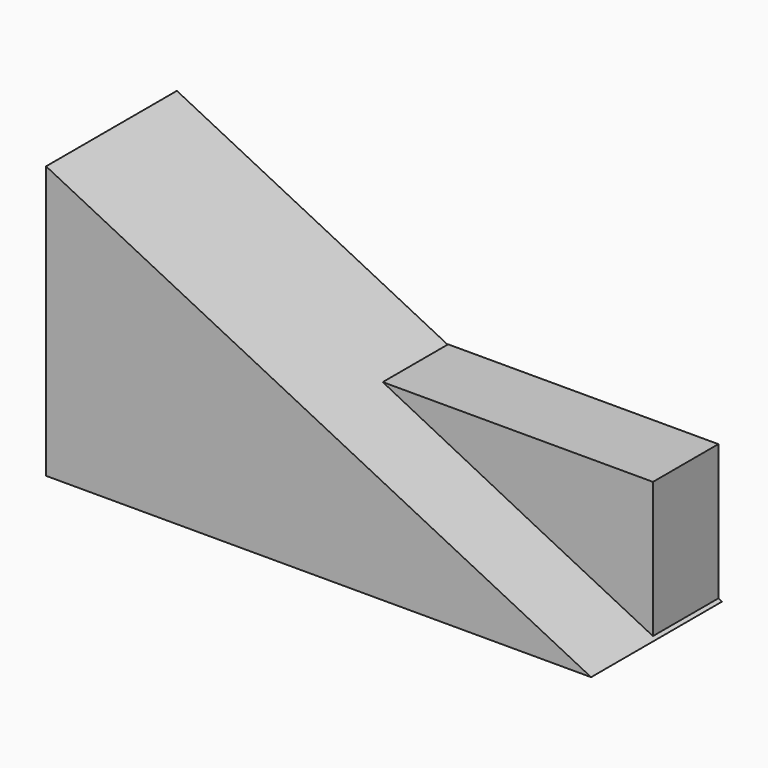
from build123d import *

# Parameters (mm, degrees)
F1_DEPTH = 38.1
F3_DEPTH = 19.05


with BuildPart() as f1:
    # F0 (on Front) → F1 (new body)
    with BuildSketch(Plane.XZ):
        Polygon((-60.002295, 17.8841), (-60.002295, -45.6159), (66.997705, -45.6159), align=None)
    extrude(amount=F1_DEPTH)


with BuildPart() as f3:
    # F2 (on Front) → F3 (new body)
    with BuildSketch(Plane.XZ):
        Polygon((3.206231, -13.564016), (66.164918, -45.314016), (66.164918, -13.564016), align=None)
    extrude(amount=F3_DEPTH)


solid = Compound([f1.part, f3.part])
